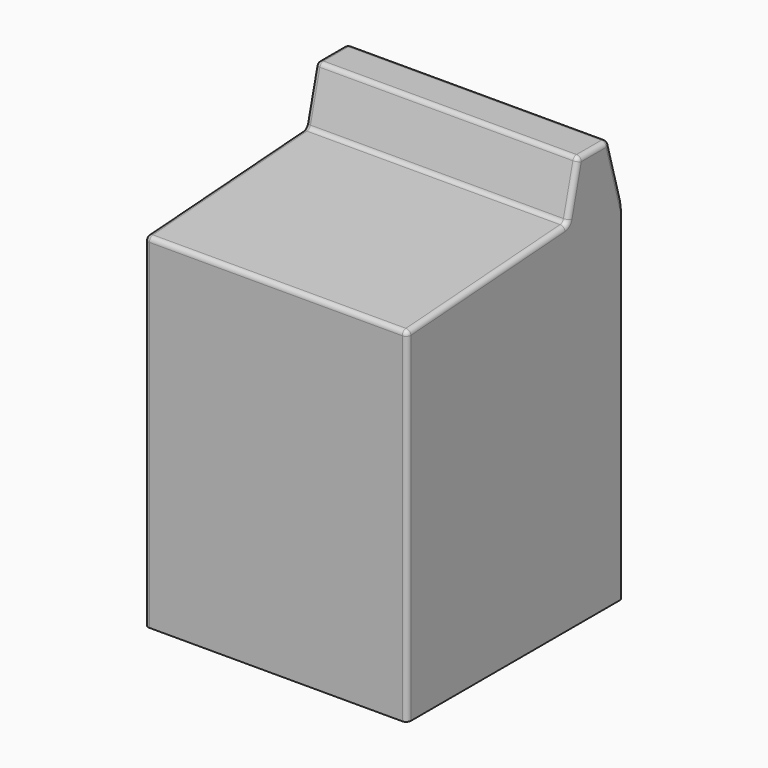
from build123d import *

# Parameters (mm, degrees)
F0_W     = 698.5
F0_H     = 711.2
F1_DEPTH = 1092.2
F3_DEPTH = 698.501
F4_R     = 12.7


with BuildPart() as f1:
    # F0 (on Top) → F1 (new body)
    with BuildSketch(Plane.XY):
        with Locations((349.25, -355.6)):
            Rectangle(F0_W, F0_H)
    extrude(amount=F1_DEPTH)

    # F2 (on face) → F3 (cut, through all)
    with BuildSketch(Plane(origin=(0, 0, 0), x_dir=(0, -1, 0), z_dir=(-1, 0, 0))):
        Polygon((711.2, 1092.2), (141.5470689535, 1092.2), (177.5199323893, 950.9692788124), (711.2, 914.996445179), align=None)
        Polygon((0, 1092.2), (0, 950.9692788124), (39.6239757538, 1092.2), align=None)
    extrude(amount=-F3_DEPTH, mode=Mode.SUBTRACT)

    # F4
    f4_edges = [f1.edges().sort_by_distance(p)[0] for p in [
        (0, -711.2, 457.498223),
        (698.5, -711.2, 457.498223),
        (349.25, -711.2, 914.996445),
        (0, -444.359966, 932.982862),
        (698.5, -444.359966, 932.982862),
        (349.25, -177.519932, 950.969279),
        (349.25, -141.547069, 1092.2),
        (349.25, -39.623976, 1092.2),
        (0, -159.533501, 1021.584639),
        (698.5, -159.533501, 1021.584639),
        (0, -19.811988, 1021.584639),
        (698.5, -90.585522, 1092.2),
        (698.5, -19.811988, 1021.584639),
        (0, -90.585522, 1092.2),
    ]]
    fillet(f4_edges, radius=F4_R)


solid = f1.part
